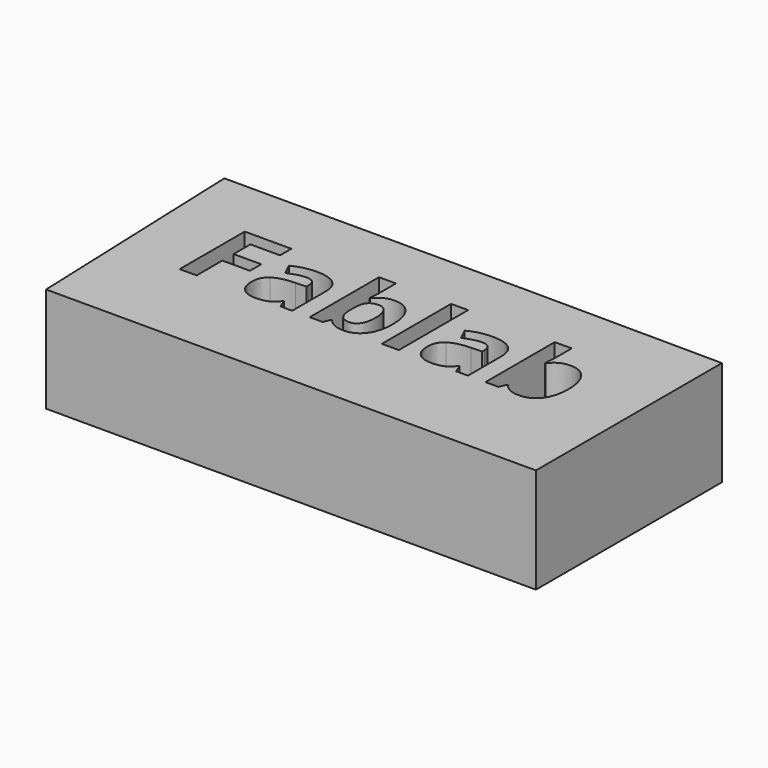
from build123d import *

# Parameters (mm, degrees)
F0_W     = 4.0410413984
F0_H     = 20.6207600425
F1_DEPTH = 25


with BuildPart() as f1:
    # F0 (on Top) → F1 (new body)
    with BuildSketch(Plane.XY):
        Polygon((42.779609561, 38.338817656), (-29.1611850262, 38.338817656), (-27.088817209, -17.3190794885), (42.779609561, -17.3190794885), (89.5559191704, -17.3190794885), (89.5559191704, 38.0427651107), align=None)
        Polygon((-8.7674763547, 12.2468649212), (-8.7674763547, 4.5888158493), (-12.8085177531, 4.5888158493), (-12.8085177531, 23.9629167406), (-1.7030744976, 23.9629167406), (-1.7030744976, 20.5960889647), (-8.7674763547, 20.5960889647), (-8.7674763547, 15.6009716853), (-2.1949536185, 15.6009716853), (-2.1949536185, 12.2468649212), align=None, mode=Mode.SUBTRACT)
        with BuildLine():
            Line((13.9988943359, 4.5888158493), (11.1790700652, 4.5888158493))
            Line((11.1790700652, 4.5888158493), (10.3946076741, 6.6029760426))
            Line((10.3946076741, 6.6029760426), (10.2885992429, 6.6029760426))
            add(Edge.make_bspline(
                [(10.2885992429, 6.6029760426), (9.2709183031, 5.3181538561), (8.1896323046, 4.8199142294)],
                knots=[0, 0, 0, 1, 1, 1], degree=2))
            add(Edge.make_bspline(
                [(8.1896323046, 4.8199142294), (7.1083463061, 4.3216746026), (5.3740483712, 4.3216746026)],
                knots=[0, 0, 0, 1, 1, 1], degree=2))
            add(Edge.make_bspline(
                [(5.3740483712, 4.3216746026), (3.2411587349, 4.3216746026), (2.0157012699, 5.5428917303)],
                knots=[0, 0, 0, 1, 1, 1], degree=2))
            add(Edge.make_bspline(
                [(2.0157012699, 5.5428917303), (0.7902438049, 6.7641088581), (0.7902438049, 9.0157279374)],
                knots=[0, 0, 0, 1, 1, 1], degree=2))
            add(Edge.make_bspline(
                [(0.7902438049, 9.0157279374), (0.7902438049, 11.3733554479), (2.4397349948, 12.4928044817)],
                knots=[0, 0, 0, 1, 1, 1], degree=2))
            add(Edge.make_bspline(
                [(2.4397349948, 12.4928044817), (4.0892261847, 13.6122535154), (7.413650588, 13.7309829584)],
                knots=[0, 0, 0, 1, 1, 1], degree=2))
            Line((7.413650588, 13.7309829584), (9.9875352982, 13.8115493661))
            Line((9.9875352982, 13.8115493661), (9.9875352982, 14.4603209653))
            add(Edge.make_bspline(
                [(9.9875352982, 14.4603209653), (9.9875352982, 16.7119400445), (7.6807918347, 16.7119400445)],
                knots=[0, 0, 0, 1, 1, 1], degree=2))
            add(Edge.make_bspline(
                [(7.6807918347, 16.7119400445), (5.9040905273, 16.7119400445), (3.5040596443, 15.6391347205)],
                knots=[0, 0, 0, 1, 1, 1], degree=2))
            Line((3.5040596443, 15.6391347205), (2.1683534108, 18.3699119089))
            add(Edge.make_bspline(
                [(2.1683534108, 18.3699119089), (4.7252767721, 19.7098584797), (7.8376843129, 19.7098584797)],
                knots=[0, 0, 0, 1, 1, 1], degree=2))
            add(Edge.make_bspline(
                [(7.8376843129, 19.7098584797), (10.8186413991, 19.7098584797), (12.4087678675, 18.4101951128)],
                knots=[0, 0, 0, 1, 1, 1], degree=2))
            add(Edge.make_bspline(
                [(12.4087678675, 18.4101951128), (13.9988943359, 17.110531746), (13.9988943359, 14.4603209653)],
                knots=[0, 0, 0, 1, 1, 1], degree=2))
            Line((13.9988943359, 14.4603209653), (13.9988943359, 4.5888158493))
        make_face(mode=Mode.SUBTRACT)
        with BuildLine():
            add(Edge.make_bspline(
                [(22.203946913, 17.4836814239), (23.6244598914, 19.6801761189), (26.4061211269, 19.6801761189)],
                knots=[0, 0, 0, 1, 1, 1], degree=2))
            add(Edge.make_bspline(
                [(26.4061211269, 19.6801761189), (29.0308898841, 19.6801761189), (30.5150079213, 17.6342133962)],
                knots=[0, 0, 0, 1, 1, 1], degree=2))
            add(Edge.make_bspline(
                [(30.5150079213, 17.6342133962), (31.9991259585, 15.5882506735), (31.9991259585, 12.022127047)],
                knots=[0, 0, 0, 1, 1, 1], degree=2))
            add(Edge.make_bspline(
                [(31.9991259585, 12.022127047), (31.9991259585, 8.3542353265), (30.4683642115, 6.3379549645)],
                knots=[0, 0, 0, 1, 1, 1], degree=2))
            add(Edge.make_bspline(
                [(30.4683642115, 6.3379549645), (28.9376024646, 4.3216746026), (26.3001126956, 4.3216746026)],
                knots=[0, 0, 0, 1, 1, 1], degree=2))
            add(Edge.make_bspline(
                [(26.3001126956, 4.3216746026), (23.6880649502, 4.3216746026), (22.203946913, 6.2171053529)],
                knots=[0, 0, 0, 1, 1, 1], degree=2))
            Line((22.203946913, 6.2171053529), (21.9283249918, 6.2171053529))
            Line((21.9283249918, 6.2171053529), (21.2498710319, 4.5888158493))
            Line((21.2498710319, 4.5888158493), (18.1629055145, 4.5888158493))
            Line((18.1629055145, 4.5888158493), (18.1629055145, 25.2095758918))
            Line((18.1629055145, 25.2095758918), (22.203946913, 25.2095758918))
            Line((22.203946913, 25.2095758918), (22.203946913, 20.4095141258))
            add(Edge.make_bspline(
                [(22.203946913, 20.4095141258), (22.203946913, 19.4978416172), (22.0470544348, 17.4836814239)],
                knots=[0, 0, 0, 1, 1, 1], degree=2))
            Line((22.0470544348, 17.4836814239), (22.203946913, 17.4836814239))
        make_face(mode=Mode.SUBTRACT)
        with Locations((37.3567920727, 14.8991958705)):
            Rectangle(F0_W, F0_H, mode=Mode.SUBTRACT)
        with BuildLine():
            Line((55.8467826476, 4.5888158493), (53.0269583769, 4.5888158493))
            Line((53.0269583769, 4.5888158493), (52.2424959858, 6.6029760426))
            Line((52.2424959858, 6.6029760426), (52.1364875546, 6.6029760426))
            add(Edge.make_bspline(
                [(52.1364875546, 6.6029760426), (51.1188066148, 5.3181538561), (50.0375206163, 4.8199142294)],
                knots=[0, 0, 0, 1, 1, 1], degree=2))
            add(Edge.make_bspline(
                [(50.0375206163, 4.8199142294), (48.9562346177, 4.3216746026), (47.2219366828, 4.3216746026)],
                knots=[0, 0, 0, 1, 1, 1], degree=2))
            add(Edge.make_bspline(
                [(47.2219366828, 4.3216746026), (45.0890470465, 4.3216746026), (43.8635895815, 5.5428917303)],
                knots=[0, 0, 0, 1, 1, 1], degree=2))
            add(Edge.make_bspline(
                [(43.8635895815, 5.5428917303), (42.6381321165, 6.7641088581), (42.6381321165, 9.0157279374)],
                knots=[0, 0, 0, 1, 1, 1], degree=2))
            add(Edge.make_bspline(
                [(42.6381321165, 9.0157279374), (42.6381321165, 11.3733554479), (44.2876233064, 12.4928044817)],
                knots=[0, 0, 0, 1, 1, 1], degree=2))
            add(Edge.make_bspline(
                [(44.2876233064, 12.4928044817), (45.9371144964, 13.6122535154), (49.2615388997, 13.7309829584)],
                knots=[0, 0, 0, 1, 1, 1], degree=2))
            Line((49.2615388997, 13.7309829584), (51.8354236099, 13.8115493661))
            Line((51.8354236099, 13.8115493661), (51.8354236099, 14.4603209653))
            add(Edge.make_bspline(
                [(51.8354236099, 14.4603209653), (51.8354236099, 16.7119400445), (49.5286801464, 16.7119400445)],
                knots=[0, 0, 0, 1, 1, 1], degree=2))
            add(Edge.make_bspline(
                [(49.5286801464, 16.7119400445), (47.751978839, 16.7119400445), (45.351947956, 15.6391347205)],
                knots=[0, 0, 0, 1, 1, 1], degree=2))
            Line((45.351947956, 15.6391347205), (44.0162417225, 18.3699119089))
            add(Edge.make_bspline(
                [(44.0162417225, 18.3699119089), (46.5731650837, 19.7098584797), (49.6855726246, 19.7098584797)],
                knots=[0, 0, 0, 1, 1, 1], degree=2))
            add(Edge.make_bspline(
                [(49.6855726246, 19.7098584797), (52.6665297107, 19.7098584797), (54.2566561792, 18.4101951128)],
                knots=[0, 0, 0, 1, 1, 1], degree=2))
            add(Edge.make_bspline(
                [(54.2566561792, 18.4101951128), (55.8467826476, 17.110531746), (55.8467826476, 14.4603209653)],
                knots=[0, 0, 0, 1, 1, 1], degree=2))
            Line((55.8467826476, 14.4603209653), (55.8467826476, 4.5888158493))
        make_face(mode=Mode.SUBTRACT)
        with BuildLine():
            add(Edge.make_bspline(
                [(64.0518352246, 17.4836814239), (65.4723482031, 19.6801761189), (68.2540094385, 19.6801761189)],
                knots=[0, 0, 0, 1, 1, 1], degree=2))
            add(Edge.make_bspline(
                [(68.2540094385, 19.6801761189), (70.8787781957, 19.6801761189), (72.3628962329, 17.6342133962)],
                knots=[0, 0, 0, 1, 1, 1], degree=2))
            add(Edge.make_bspline(
                [(72.3628962329, 17.6342133962), (73.8470142701, 15.5882506735), (73.8470142701, 12.022127047)],
                knots=[0, 0, 0, 1, 1, 1], degree=2))
            add(Edge.make_bspline(
                [(73.8470142701, 12.022127047), (73.8470142701, 8.3542353265), (72.3162525232, 6.3379549645)],
                knots=[0, 0, 0, 1, 1, 1], degree=2))
            add(Edge.make_bspline(
                [(72.3162525232, 6.3379549645), (70.7854907763, 4.3216746026), (68.1480010073, 4.3216746026)],
                knots=[0, 0, 0, 1, 1, 1], degree=2))
            add(Edge.make_bspline(
                [(68.1480010073, 4.3216746026), (65.5359532618, 4.3216746026), (64.0518352246, 6.2171053529)],
                knots=[0, 0, 0, 1, 1, 1], degree=2))
            Line((64.0518352246, 6.2171053529), (63.7762133035, 6.2171053529))
            Line((63.7762133035, 6.2171053529), (63.0977593436, 4.5888158493))
            Line((63.0977593436, 4.5888158493), (60.0107938262, 4.5888158493))
            Line((60.0107938262, 4.5888158493), (60.0107938262, 25.2095758918))
            Line((60.0107938262, 25.2095758918), (64.0518352246, 25.2095758918))
            Line((64.0518352246, 25.2095758918), (64.0518352246, 20.4095141258))
            add(Edge.make_bspline(
                [(64.0518352246, 20.4095141258), (64.0518352246, 19.4978416172), (63.8949427464, 17.4836814239)],
                knots=[0, 0, 0, 1, 1, 1], degree=2))
            Line((63.8949427464, 17.4836814239), (64.0518352246, 17.4836814239))
        make_face(mode=Mode.SUBTRACT)
    extrude(amount=F1_DEPTH)


with BuildPart() as f1b:
    # F0 (on Top) → F1, piece 2 (new body)
    with BuildSketch(Plane.XY):
        with BuildLine():
            add(Edge.make_bspline(
                [(27.1354591337, 15.3550321248), (26.3934001151, 16.4490391351), (25.1085779286, 16.4490391351)],
                knots=[0, 0, 0, 1, 1, 1], degree=2))
            add(Edge.make_bspline(
                [(25.1085779286, 16.4490391351), (23.6074985424, 16.4490391351), (22.9184437395, 15.528885952)],
                knots=[0, 0, 0, 1, 1, 1], degree=2))
            add(Edge.make_bspline(
                [(22.9184437395, 15.528885952), (22.2293889365, 14.608732769), (22.203946913, 12.4885641444)],
                knots=[0, 0, 0, 1, 1, 1], degree=2))
            Line((22.203946913, 12.4885641444), (22.203946913, 12.0475690705))
            add(Edge.make_bspline(
                [(22.203946913, 12.0475690705), (22.203946913, 9.6644995365), (22.9142034022, 8.6298572477)],
                knots=[0, 0, 0, 1, 1, 1], degree=2))
            add(Edge.make_bspline(
                [(22.9142034022, 8.6298572477), (23.6244598914, 7.5952149589), (25.1594619756, 7.5952149589)],
                knots=[0, 0, 0, 1, 1, 1], degree=2))
            add(Edge.make_bspline(
                [(25.1594619756, 7.5952149589), (26.4061211269, 7.5952149589), (27.1418196396, 8.7422261848)],
                knots=[0, 0, 0, 1, 1, 1], degree=2))
            add(Edge.make_bspline(
                [(27.1418196396, 8.7422261848), (27.8775181523, 9.8892374107), (27.8775181523, 12.0772514312)],
                knots=[0, 0, 0, 1, 1, 1], degree=2))
            add(Edge.make_bspline(
                [(27.8775181523, 12.0772514312), (27.8775181523, 14.2610251145), (27.1354591337, 15.3550321248)],
                knots=[0, 0, 0, 1, 1, 1], degree=2))
        make_face()
    extrude(amount=F1_DEPTH)


solid = Compound([f1.part, f1b.part])
